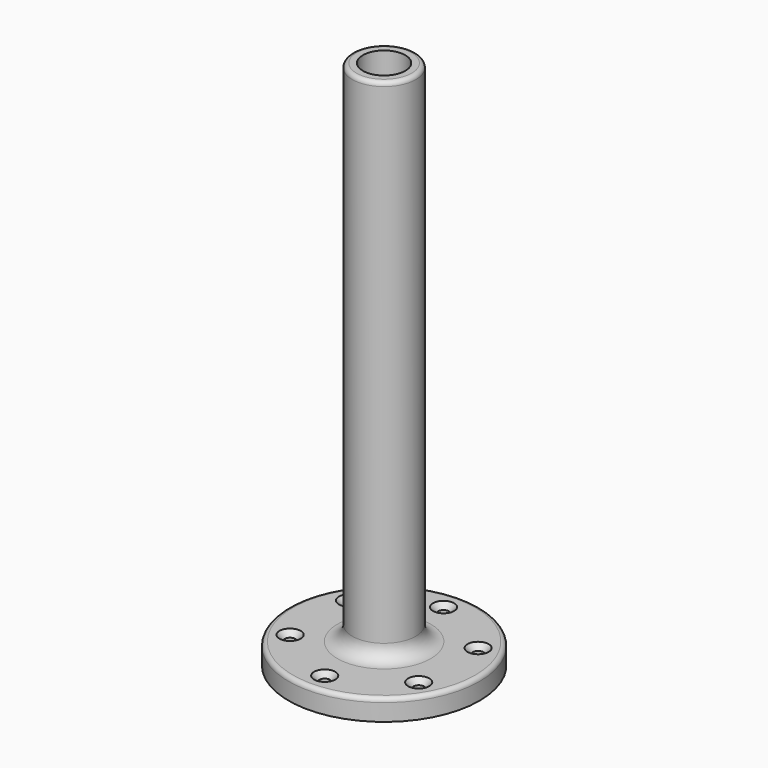
from build123d import *

# Parameters (mm, degrees)
F0_R           = 45
F1_DEPTH       = 10
F2_R           = 15
F3_DEPTH       = 250
F5_D           = 5
F5_CSINK_D     = 10
F5_CSINK_ANGLE = 90
F6_R           = 7
F7_R           = 2
F8_R           = 2
F10_R          = 10
F11_DEPTH      = 230


with BuildPart() as f1:
    # F0 (on Top) → F1 (new body)
    with BuildSketch(Plane.XY):
        Circle(F0_R)
    extrude(amount=F1_DEPTH)

    # F2 (on Top) → F3 (join)
    with BuildSketch(Plane.XY):
        Circle(F2_R)
    extrude(amount=F3_DEPTH)

    # F5 (through all)
    with Locations(Plane.XY.offset(10)):
        with Locations((0, 35), (-30.310889, 17.5), (-30.310889, -17.5), (0, -35), (30.310889, -17.5), (30.310889, 17.5)):
            CounterSinkHole(F5_D / 2, F5_CSINK_D / 2, counter_sink_angle=F5_CSINK_ANGLE)

    # F6
    f6_edges = [f1.edges().sort_by_distance(p)[0] for p in [
        (-15, 0, 10),
    ]]
    fillet(f6_edges, radius=F6_R)

    # F7
    f7_edges = [f1.edges().sort_by_distance(p)[0] for p in [
        (-15, 0, 250),
    ]]
    fillet(f7_edges, radius=F7_R)

    # F8
    f8_edges = [f1.edges().sort_by_distance(p)[0] for p in [
        (-45, 0, 10),
    ]]
    fillet(f8_edges, radius=F8_R)

    # F10 (on face) → F11 (cut)
    with BuildSketch(Plane.XY.offset(250)):
        Circle(F10_R)
    extrude(amount=-F11_DEPTH, mode=Mode.SUBTRACT)


solid = f1.part
